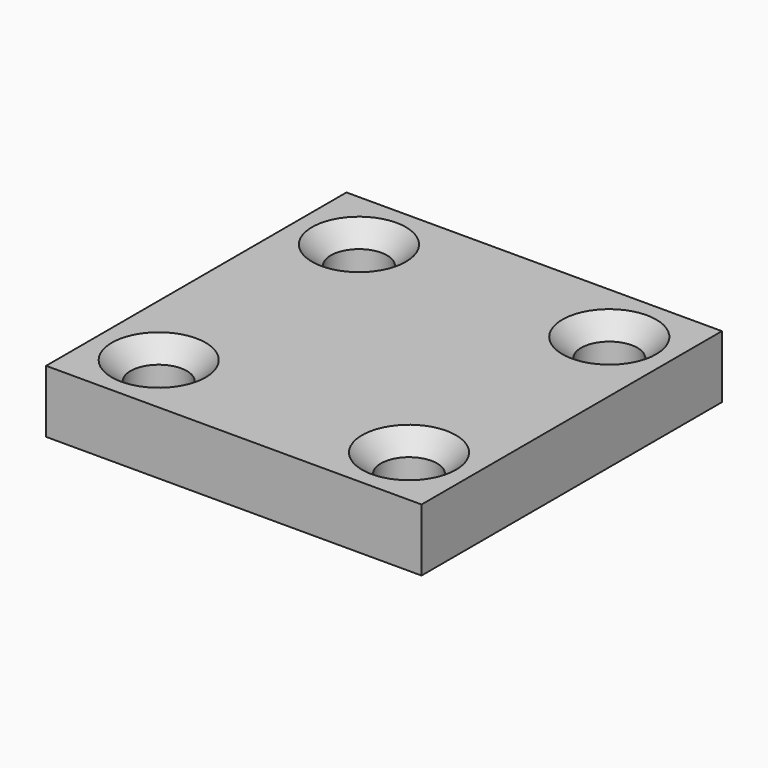
from build123d import *

# Parameters (mm, degrees)
F0_W     = 30
F0_H     = 30
F0_R     = 2.25
F1_DEPTH = 5
F2_SIZE  = 1.5


with BuildPart() as f1:
    # F0 (on Top) → F1 (new body)
    with BuildSketch(Plane.XY):
        Rectangle(F0_W, F0_H)
        with Locations((-10, -10)):
            Circle(F0_R, mode=Mode.SUBTRACT)
        with Locations((10, -10)):
            Circle(F0_R, mode=Mode.SUBTRACT)
        with Locations((-10, 10)):
            Circle(F0_R, mode=Mode.SUBTRACT)
        with Locations((10, 10)):
            Circle(F0_R, mode=Mode.SUBTRACT)
    extrude(amount=F1_DEPTH)

    # F2
    f2_edges = [f1.edges().sort_by_distance(p)[0] for p in [
        (-12.25, -10, 5),
        (-12.25, 10, 5),
        (7.75, -10, 5),
        (7.75, 10, 5),
    ]]
    chamfer(f2_edges, length=F2_SIZE)


solid = f1.part
